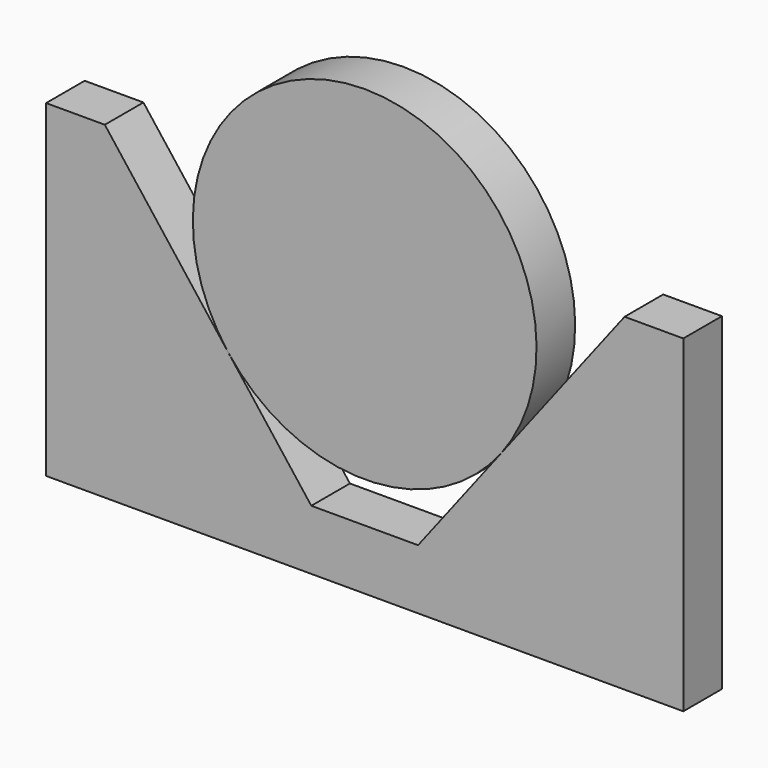
from build123d import *

# Parameters (mm, degrees)
F2_DEPTH = 25
F0_R     = 89
F3_DEPTH = 25


with BuildPart() as f2:
    # F1 (on Front) → F2 (new body)
    with BuildSketch(Plane.XZ):
        Polygon((134.584247, 28.931916), (27.640651, -110), (0, -110), (-27.640651, -110), (-134.584247, 28.931916), (-165, 28.931916), (-165, -141.068084), (-27.945194, -141.068084), (27.945194, -141.068084), (165, -141.068084), (165, 28.931916), align=None)
    extrude(amount=F2_DEPTH)

    # F0 (on Front) → F3 (join)
    with BuildSketch(Plane.XZ):
        Circle(F0_R)
    extrude(amount=F3_DEPTH)


solid = f2.part
